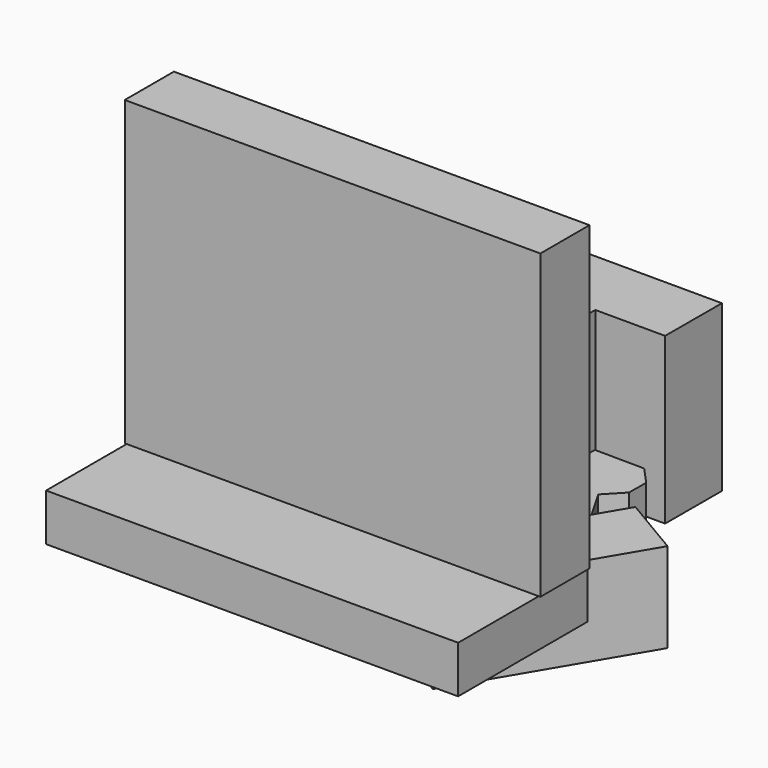
from build123d import *

# Parameters (mm, degrees)
SKETCH001_R      = 5
SKETCH001_R_2    = 6.5
EXTRUDE_DEPTH    = 9
SKETCH004_W      = 87.248978
SKETCH004_H      = 34.299007
EXTRUDE004_DEPTH = 10
EXTRUDE002_DEPTH = 19
EXTRUDE001_DEPTH = 19
EXTRUDE003_DEPTH = 35
SKETCH005_W      = 88
SKETCH005_H      = 13
EXTRUDE005_DEPTH = 64


with BuildPart() as extrude_body:
    # Sketch001 → Extrude (new body)
    with BuildSketch(Plane(origin=(11, 13, 0), x_dir=(1, 0, 0), z_dir=(0, 0, 1))):
        Polygon((92.138212, 71.477997), (99.138212, 59.353641), (104.147683, 60.457133), (108.020931, 58.166292), (109.466872, 53.244732), (104.121576, 44.207154), (96.375081, 48.788836), (90.266171, 38.460176), (98.012666, 33.878494), (92.66737, 24.840916), (87.657898, 23.737425), (83.784651, 26.028266), (82.33871, 30.949826), (68.33871, 30.949826), (66.794519, 26.058201), (62.873968, 23.849291), (57.887594, 25.052863), (52.731628, 34.204082), (60.572729, 38.621903), (54.682302, 49.076704), (46.841201, 44.658884), (41.688919, 53.803566), (43.23311, 58.695191), (47.15366, 60.904101), (52.140035, 59.700529), (59.140035, 71.824885), (55.679647, 75.611469), (55.72695, 80.11122), (59.266176, 83.824222), (69.765596, 83.713849), (69.67099, 74.714346), (81.670327, 74.588205), (81.764933, 83.587708), (92.264353, 83.477334), (95.72474, 79.69075), (95.677437, 75.190999), align=None)
        with Locations((76.588238, 60.640856)):
            Circle(SKETCH001_R, mode=Mode.SUBTRACT)
        with Locations((64.201959, 52.770623)):
            Circle(SKETCH001_R_2, mode=Mode.SUBTRACT)
        with Locations((88.200633, 52.51834)):
            Circle(SKETCH001_R_2, mode=Mode.SUBTRACT)
    extrude(amount=EXTRUDE_DEPTH)


with BuildPart() as extrude004:
    # Sketch004 → Extrude004 (new body)
    with BuildSketch(Plane.XY):
        with Locations((83.604523, 30.688192)):
            Rectangle(SKETCH004_W, SKETCH004_H)
    extrude(amount=EXTRUDE004_DEPTH)


with BuildPart() as extrude004_1:
    # Extrude004 placement: moved
    add(extrude004.part.moved(Location((3, 0, 9))))


with BuildPart() as extrude002:
    # Sketch002 → Extrude002 (new body)
    with BuildSketch(Plane.XY):
        Polygon((114.524362, 26.458614), (101.615411, 34.09792), (109.152859, 46.834751), (101.23537, 51.520192), (107.295886, 61.761293), (115.213376, 57.075852), (122.750824, 69.812683), (135.659775, 62.173377), align=None)
    extrude(amount=EXTRUDE002_DEPTH)


with BuildPart() as extrude001:
    # Sketch → Extrude001 (new body)
    with BuildSketch(Plane.XY):
        Polygon((37.353531, 63.041878), (50.403561, 70.4376), (57.700674, 57.56157), (65.704692, 62.097613), (71.571965, 51.744589), (63.567946, 47.208546), (70.865059, 34.332516), (57.815029, 26.936794), align=None)
    extrude(amount=EXTRUDE001_DEPTH)


with BuildPart() as extrude003:
    # Sketch003 → Extrude003 (new body)
    with BuildSketch(Plane.XY):
        Polygon((107.534802, 111.722114), (107.500671, 96.722153), (92.700709, 96.755829), (92.679776, 87.555852), (80.779807, 87.582929), (80.80074, 96.782905), (66.000778, 96.816581), (66.034909, 111.816542), align=None)
    extrude(amount=EXTRUDE003_DEPTH)


with BuildPart() as obj1:
    # Sketch005 → Extrude005 (new body)
    with BuildSketch(Plane.XY):
        with Locations((83.577726, 41.368692)):
            Rectangle(SKETCH005_W, SKETCH005_H)
    extrude(amount=EXTRUDE005_DEPTH)


with BuildPart() as obj1_1:
    # Extrude005 placement: moved
    add(obj1.part.moved(Location((3, 0, 19))))

    # Fusion: union Extrude004, Extrude002, Extrude001, Extrude003
    add(extrude004_1.part)
    add(extrude002.part)
    add(extrude001.part)
    add(extrude003.part)


solid = Compound([extrude_body.part, obj1_1.part])
